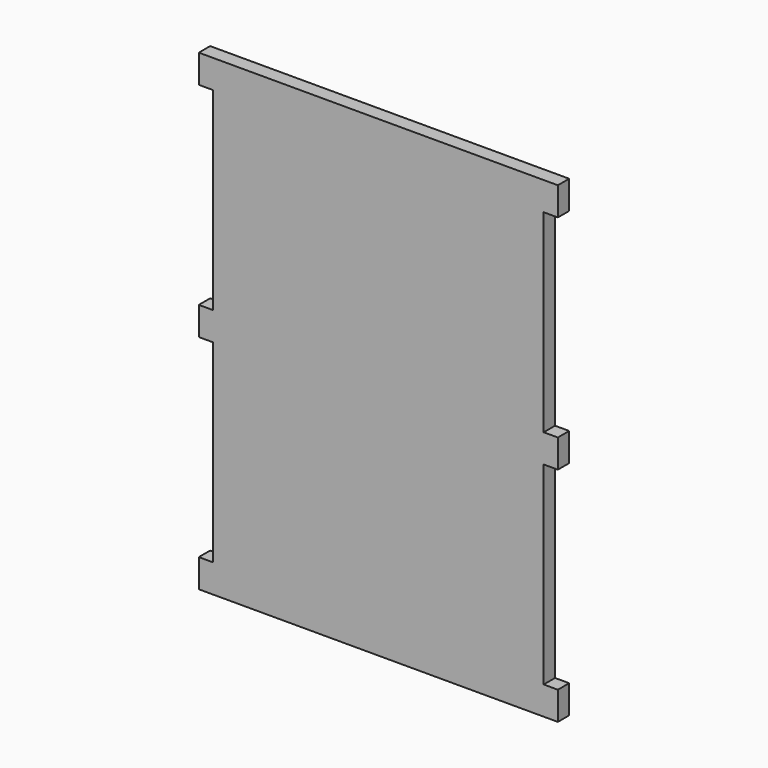
from build123d import *

# Parameters (mm, degrees)
F0_W     = 70
F0_H     = 100
F1_DEPTH = 3
F2_W     = 3
F2_H     = 6
F3_DEPTH = 3


with BuildPart() as f1:
    # F0 (on Front) → F1 (new body)
    with BuildSketch(Plane.XZ):
        Rectangle(F0_W, F0_H)
    extrude(amount=F1_DEPTH)

    # F2 (on face) → F3 (join)
    with BuildSketch(Plane.XZ.offset(3)):
        with Locations((-36.5, 47)):
            Rectangle(F2_W, F2_H)
        with Locations((-36.5, -47)):
            Rectangle(F2_W, F2_H)
        with Locations((-36.5, 0)):
            Rectangle(F2_W, F2_H)
        with Locations((36.5, 0)):
            Rectangle(F2_W, F2_H)
        with Locations((36.5, -47)):
            Rectangle(F2_W, F2_H)
        with Locations((36.5, 47)):
            Rectangle(F2_W, F2_H)
    extrude(amount=-F3_DEPTH)


solid = f1.part
